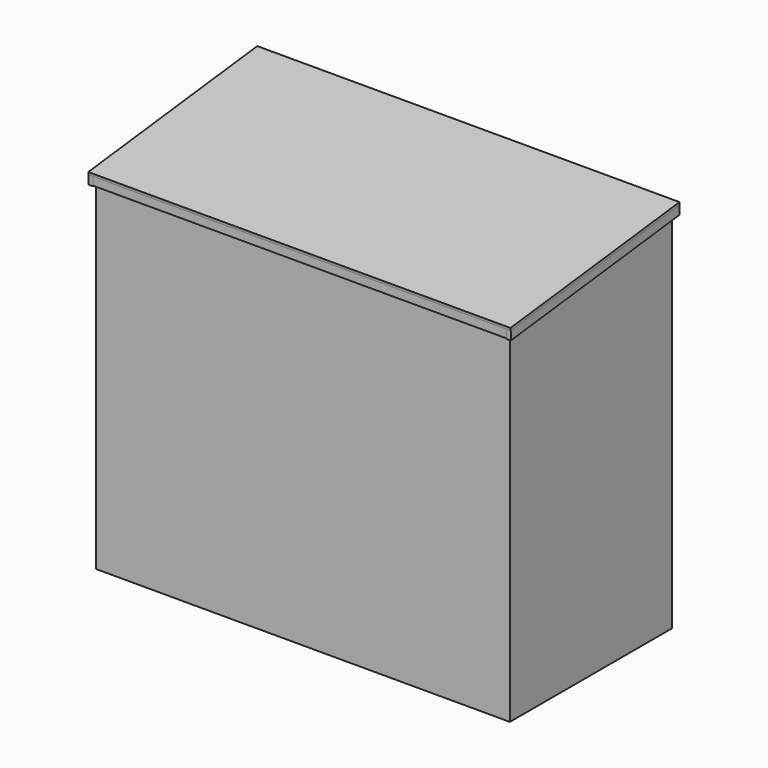
from build123d import *

# Parameters (mm, degrees)
F1_DEPTH = 1847
F2_W     = 19
F2_H     = 38
F3_DEPTH = 1847
F5_DEPTH = 19
F7_DEPTH = 19
F8_W     = 1885
F8_H     = 949.568138
F9_DEPTH = 12


with BuildPart() as f1:
    # F0 (on Right) → F1 (new body)
    with BuildSketch(Plane.YZ):
        Polygon((-905, 0), (0, 0), (0, 1660), (-905, 1553), align=None)
    extrude(amount=F1_DEPTH)


with BuildPart() as f3:
    # F2 (on face) → F3 (new body, through all)
    with BuildSketch(Plane(origin=(0, 0, 0), x_dir=(0, -1, 0), z_dir=(-1, 0, 0))):
        with Locations((914.5, 1534)):
            Rectangle(F2_W, F2_H)
        with Locations((-9.5, 1642.981733)):
            Rectangle(F2_W, F2_H)
    extrude(amount=-F3_DEPTH)


with BuildPart() as f5:
    # F4 (on face) → F5 (new body)
    with BuildSketch(Plane(origin=(0, 0, 0), x_dir=(0, -1, 0), z_dir=(-1, 0, 0))):
        Polygon((924, 1550.753591), (-19, 1662.246409), (-19, 1623.981733), (924, 1512.488915), align=None)
    extrude(amount=F5_DEPTH)


with BuildPart() as f7:
    # F6 (on face) → F7 (new body)
    with BuildSketch(Plane.YZ.offset(1847)):
        Polygon((-924, 1512.488915), (19, 1623.981733), (19, 1662.246409), (-924, 1550.753591), align=None)
    extrude(amount=F7_DEPTH)


with BuildPart() as f9:
    # F8 (on face) → F9 (new body)
    with BuildSketch(Plane(origin=(0, -193.559461, 1637.115069), x_dir=(1, 0, 0), z_dir=(0, -0.117414, 0.993083))):
        with Locations((923.5, -260.744099)):
            Rectangle(F8_W, F8_H)
    extrude(amount=F9_DEPTH)


solid = Compound([f1.part, f3.part, f5.part, f7.part, f9.part])
